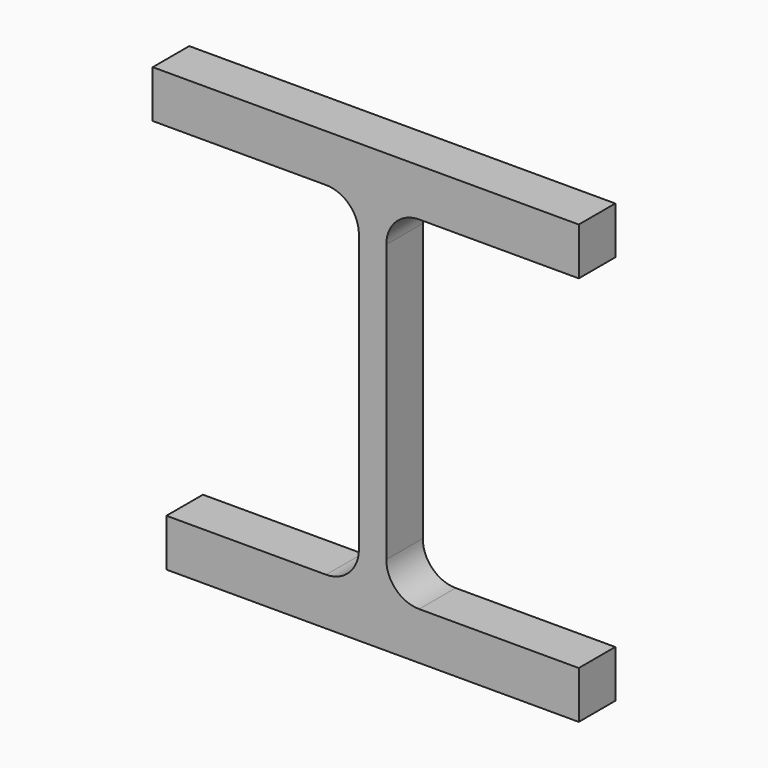
from build123d import *

# Parameters (mm, degrees)
F1_DEPTH = 25


with BuildPart() as f1:
    # F0 (on Front) → F1 (new body)
    with BuildSketch(Plane.XZ):
        with BuildLine():
            Line((-60.62815, -11.740413), (-60.62815, -37.740413))
            Line((-60.62815, -37.740413), (165.37185, -37.740413))
            Line((165.37185, -37.740413), (165.37185, -11.740413))
            Line((165.37185, -11.740413), (77.87185, -11.740413))
            ThreePointArc((77.87185, -11.740413), (65.143928, -6.468335), (59.87185, 6.259587))
            Line((59.87185, 6.259587), (59.87185, 158.259587))
            ThreePointArc((59.87185, 158.259587), (65.143928, 170.987509), (77.87185, 176.259587))
            Line((77.87185, 176.259587), (165.37185, 176.259587))
            Line((165.37185, 176.259587), (165.37185, 202.259587))
            Line((165.37185, 202.259587), (-68.12815, 202.259587))
            Line((-68.12815, 202.259587), (-68.12815, 176.259587))
            Line((-68.12815, 176.259587), (26.87185, 176.259587))
            ThreePointArc((26.87185, 176.259587), (39.599772, 170.987509), (44.87185, 158.259587))
            Line((44.87185, 158.259587), (44.87185, 6.259587))
            ThreePointArc((44.87185, 6.259587), (39.599772, -6.468335), (26.87185, -11.740413))
            Line((26.87185, -11.740413), (-60.62815, -11.740413))
        make_face()
    extrude(amount=F1_DEPTH)


solid = f1.part
